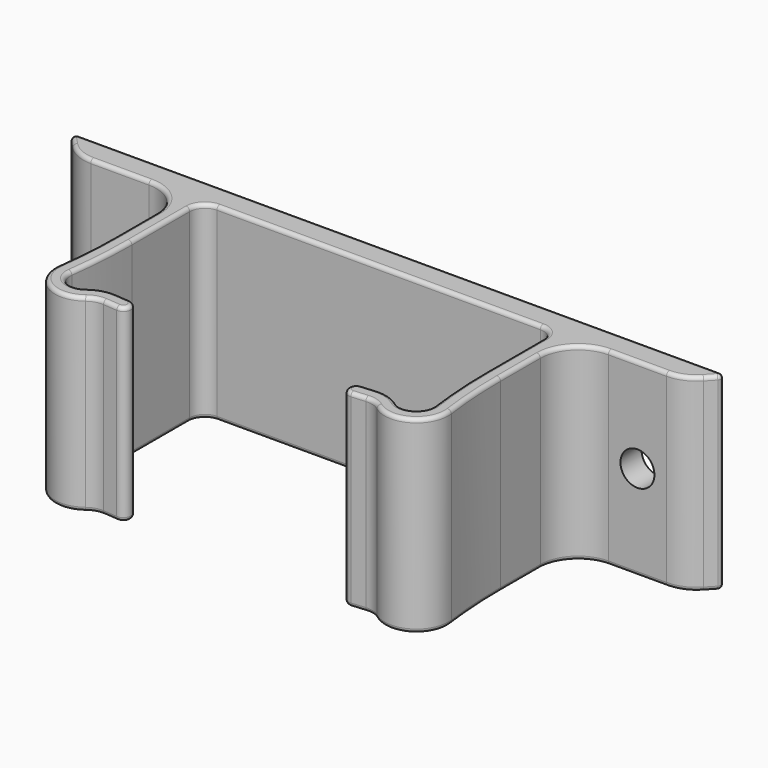
from build123d import *

# Parameters (mm, degrees)
F1_DEPTH = 25
F2_R     = 5
F3_R     = 2
F4_R     = 5
F5_R     = 0.5
F6_R     = 2.25
F7_DEPTH = 28.726871
F8_R     = 0.5


with BuildPart() as f1:
    # F0 (on Top) → F1 (new body)
    with BuildSketch(Plane.XY):
        with BuildLine():
            Line((0, 14.5), (-43.543544, 14.5))
            Line((-43.543544, 14.5), (-40.259916, 11))
            Line((-40.259916, 11), (-25.4, 11))
            Line((-25.4, 11), (-25.4, -0.577112))
            ThreePointArc((-25.4, -0.577112), (-25.547092, -5.030503), (-25.987726, -9.464483))
            ThreePointArc((-25.987726, -9.464483), (-23.930453, -13.656542), (-19.269768, -13.367145))
            ThreePointArc((-19.269768, -13.367145), (-18.367884, -12.911851), (-17.362834, -12.809092))
            Line((-17.362834, -12.809092), (-15.491197, -12.960872))
            ThreePointArc((-15.491197, -12.960872), (-14.41364, -12.044974), (-15.329538, -10.967416))
            Line((-15.329538, -10.967416), (-17.201175, -10.815636))
            ThreePointArc((-17.201175, -10.815636), (-18.929613, -10.992356), (-20.480629, -11.775348))
            ThreePointArc((-20.480629, -11.775348), (-22.925814, -11.927178), (-24.005143, -9.727853))
            ThreePointArc((-24.005143, -9.727853), (-23.551451, -5.162476), (-23.4, -0.577112))
            Line((-23.4, -0.577112), (-23.4, 11))
            Line((-23.4, 11), (0, 11))
            Line((0, 11), (23.4, 11))
            Line((23.4, 11), (23.4, -0.577112))
            ThreePointArc((23.4, -0.577112), (23.551451, -5.162476), (24.005143, -9.727853))
            ThreePointArc((24.005143, -9.727853), (22.925814, -11.927178), (20.480629, -11.775348))
            ThreePointArc((20.480629, -11.775348), (18.929613, -10.992356), (17.201175, -10.815636))
            Line((17.201175, -10.815636), (15.329538, -10.967416))
            ThreePointArc((15.329538, -10.967416), (14.41364, -12.044974), (15.491197, -12.960872))
            Line((15.491197, -12.960872), (17.362834, -12.809092))
            ThreePointArc((17.362834, -12.809092), (18.367884, -12.911851), (19.269768, -13.367145))
            ThreePointArc((19.269768, -13.367145), (23.930453, -13.656542), (25.987726, -9.464483))
            ThreePointArc((25.987726, -9.464483), (25.547092, -5.030503), (25.4, -0.577112))
            Line((25.4, -0.577112), (25.4, 11))
            Line((25.4, 11), (40.259916, 11))
            Line((40.259916, 11), (43.543544, 14.5))
            Line((43.543544, 14.5), (0, 14.5))
        make_face()
    extrude(amount=F1_DEPTH)

    # F2
    f2_edges = [f1.edges().sort_by_distance(p)[0] for p in [
        (-25.4, 11, 12.5),
        (25.4, 11, 12.5),
    ]]
    fillet(f2_edges, radius=F2_R)

    # F3
    f3_edges = [f1.edges().sort_by_distance(p)[0] for p in [
        (23.4, 11, 12.5),
        (-23.4, 11, 12.5),
    ]]
    fillet(f3_edges, radius=F3_R)

    # F4
    f4_edges = [f1.edges().sort_by_distance(p)[0] for p in [
        (-40.259916, 11, 12.5),
        (40.259916, 11, 12.5),
    ]]
    fillet(f4_edges, radius=F4_R)

    # F5
    f5_edges = [f1.edges().sort_by_distance(p)[0] for p in [
        (-43.543544, 14.5, 12.5),
        (43.543544, 14.5, 12.5),
    ]]
    fillet(f5_edges, radius=F5_R)

    # F6 (on face) → F7 (cut, through all)
    with BuildSketch(Plane(origin=(0, 14.5, 0), x_dir=(-1, 0, 0), z_dir=(0, 1, 0))):
        with Locations((-34.247415, 12.5)):
            Circle(F6_R)
        with Locations((34.247415, 12.5)):
            Circle(F6_R)
    extrude(amount=-F7_DEPTH, mode=Mode.SUBTRACT)

    # F8
    f8_edges = [f1.edges().sort_by_distance(p)[0] for p in [
        (-25.547092, -5.030503, 0),
        (-25.4, 2.711444, 25),
    ]]
    fillet(f8_edges, radius=F8_R)


solid = f1.part
